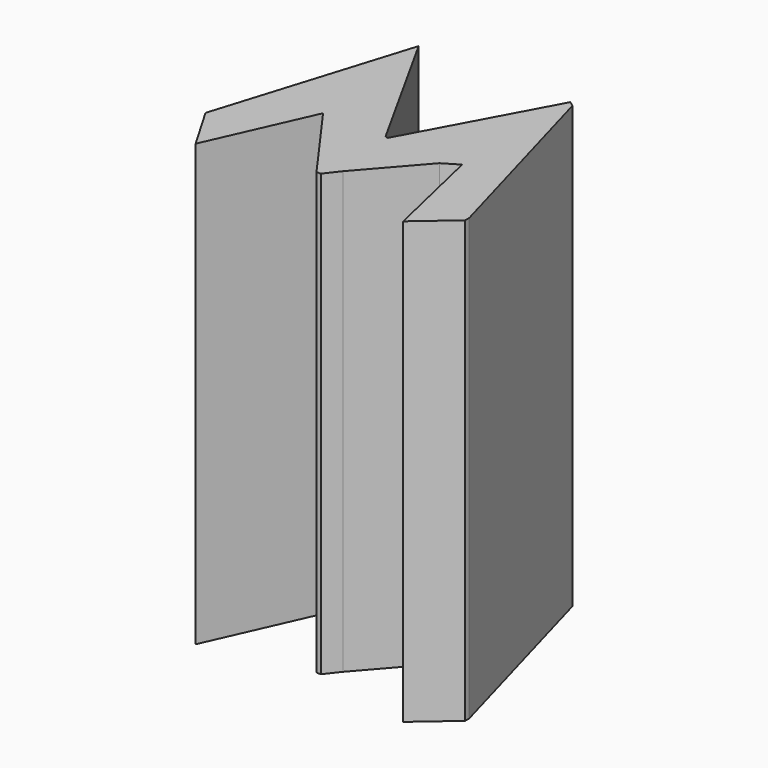
from build123d import *

# Parameters (mm, degrees)
F1_DEPTH = 100


with BuildPart() as f1:
    # F0 (on Top) → F1 (new body)
    with BuildSketch(Plane.XY):
        Polygon((-27.254099, 19.938527), (-40.737707, -23.668032), (-34.713116, -33.995904), (-24.385247, -10.758198), (-11.188525, -29.118853), (-10.19324, -29.112542), (-7.745903, -25.963115), (3.696825, -12.851658), (7.172131, -10.758198), (7.657201, -12.851658), (12.622951, -34.282789), (20.942623, -27.110657), (20.942623, -25.963115), (8.319672, 19.077869), (7.172131, 19.938527), (-9.538687, -11.029972), (-10.19324, -10.758198), align=None)
    extrude(amount=F1_DEPTH)


solid = f1.part
